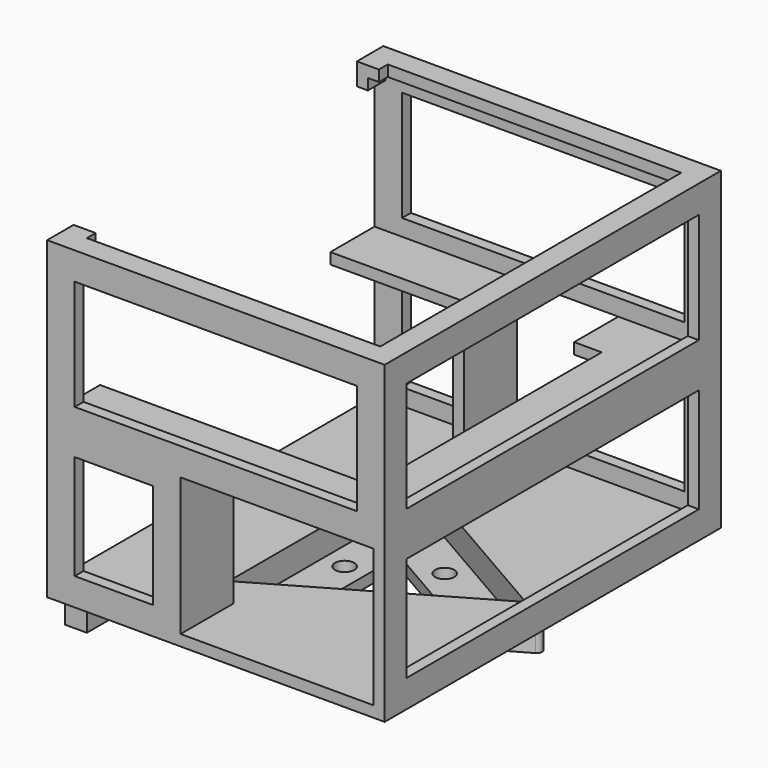
from build123d import *

# Parameters (mm, degrees)
PAD_DEPTH       = 5
FILLET_R        = 1
FILLET001_R     = 1
FILLET002_R     = 1
SKETCH001_R     = 1.75
PAD001_DEPTH    = 2
SKETCH002_W     = 61.2
SKETCH002_H     = 76.2
PAD002_DEPTH    = 2
PAD003_DEPTH    = 55
SKETCH004_W     = 35
SKETCH004_H     = 25
SKETCH004_W_2   = 14.2
SKETCH004_H_2   = 19
SKETCH004_W_3   = 51.2
SKETCH004_H_3   = 20
POCKET_DEPTH    = 2
SKETCH005_W     = 14.2
SKETCH005_H     = 19
SKETCH005_W_2   = 51.2
SKETCH005_H_2   = 20
POCKET001_DEPTH = 2
SKETCH006_W     = 66.2
SKETCH006_H     = 19
SKETCH006_H_2   = 20
POCKET002_DEPTH = 2
SKETCH007_W     = 24.2
SKETCH007_H     = 10
PAD004_DEPTH    = 2
SKETCH008_W     = 2
SKETCH008_H     = 10
PAD005_DEPTH    = 25
PAD006_DEPTH    = 2
SKETCH010_W     = 2
SKETCH010_H     = 4
PAD007_DEPTH    = 2
SKETCH011_W     = 6
SKETCH011_H     = 6
SKETCH011_R     = 1.25
PAD008_DEPTH    = 4


with BuildPart() as part:
    # Sketch → Pad (new body)
    with BuildSketch(Plane.XY):
        Polygon((28.537386, 0), (-14.268693, 24.714102), (-14.268693, -24.714102), align=None)
        Polygon((24.537386, 0), (-12.268693, 21.25), (-12.268693, -21.25), align=None, mode=Mode.SUBTRACT)
    extrude(amount=PAD_DEPTH)

    # Fillet
    fillet_edges = [part.edges().sort_by_distance(p)[0] for p in [
        (-14.268693, -24.714102, 2.5),
    ]]
    fillet(fillet_edges, radius=FILLET_R)

    # Fillet001
    fillet001_edges = [part.edges().sort_by_distance(p)[0] for p in [
        (28.537386, 0, 2.5),
    ]]
    fillet(fillet001_edges, radius=FILLET001_R)

    # Fillet002
    fillet002_edges = [part.edges().sort_by_distance(p)[0] for p in [
        (-14.268693, 24.714102, 2.5),
    ]]
    fillet(fillet002_edges, radius=FILLET002_R)

    # Sketch001 (on Face1 of Fillet002) → Pad001 (join)
    with BuildSketch(Plane(origin=(0, 0, 0), x_dir=(1, 0, 0), z_dir=(0, 0, -1))):
        Polygon((24.537386, 0), (-12.268693, 21.25), (-12.268693, -21.25), align=None)
        with Locations((4.134347, 7.160898)):
            Circle(SKETCH001_R, mode=Mode.SUBTRACT)
        with Locations((4.134347, -7.160898)):
            Circle(SKETCH001_R, mode=Mode.SUBTRACT)
        with Locations((-8.268693, 0)):
            Circle(SKETCH001_R, mode=Mode.SUBTRACT)
        Polygon((8.537386, 0), (-4.268693, 7.393594), (-4.268693, -7.393594), align=None, mode=Mode.SUBTRACT)
    extrude(amount=-PAD001_DEPTH)

    # Sketch002 (on Face9 of Pad001) → Pad002 (join)
    with BuildSketch(Plane.XY.offset(5)):
        with Locations((-1.062614, -0.09)):
            Rectangle(SKETCH002_W, SKETCH002_H)
        Polygon((-12.268693, 21.25), (-12.268693, -21.25), (24.537386, 0), align=None, mode=Mode.SUBTRACT)
    extrude(amount=PAD002_DEPTH)

    # Sketch003 (on Face21 of Pad002) → Pad003 (join)
    with BuildSketch(Plane.XY.offset(7)):
        Polygon((-31.662614, 38.01), (29.537386, 38.01), (29.537386, -38.19), (-31.662614, -38.19), (-31.662614, -36.19), (27.537386, -36.19), (27.537386, 36.01), (-31.662614, 36.01), align=None)
    extrude(amount=PAD003_DEPTH)

    # Sketch004 (on Face26 of Pad003) → Pocket (cut)
    with BuildSketch(Plane.XZ.offset(38.19)):
        with Locations((10.037386, 19.5)):
            Rectangle(SKETCH004_W, SKETCH004_H)
        with Locations((-19.562614, 19.5)):
            Rectangle(SKETCH004_W_2, SKETCH004_H_2)
        with Locations((-1.062614, 47)):
            Rectangle(SKETCH004_W_3, SKETCH004_H_3)
    extrude(amount=-POCKET_DEPTH, mode=Mode.SUBTRACT)

    # Sketch005 (on Face21 of Pocket) → Pocket001 (cut)
    with BuildSketch(Plane(origin=(0, 38.01, 0), x_dir=(-1, 0, 0), z_dir=(0, 1, 0))):
        Polygon((-24.537386, 32), (-12.537386, 32), (-12.537386, 34), (7.462614, 34), (7.462614, 32), (7.462614, 10), (-24.537386, 10), align=None)
        with Locations((19.562614, 19.5)):
            Rectangle(SKETCH005_W, SKETCH005_H)
        with Locations((1.062614, 47)):
            Rectangle(SKETCH005_W_2, SKETCH005_H_2)
    extrude(amount=-POCKET001_DEPTH, mode=Mode.SUBTRACT)

    # Sketch006 (on Face25 of Pocket001) → Pocket002 (cut)
    with BuildSketch(Plane.YZ.offset(29.537386)):
        with Locations((-0.09, 19.5)):
            Rectangle(SKETCH006_W, SKETCH006_H)
        with Locations((-0.09, 47)):
            Rectangle(SKETCH006_W, SKETCH006_H_2)
    extrude(amount=-POCKET002_DEPTH, mode=Mode.SUBTRACT)

    # Sketch007 (on Face62 of Pocket002) → Pad004 (join)
    with BuildSketch(Plane(origin=(0, 0, 32), x_dir=(1, 0, 0), z_dir=(0, 0, -1))):
        Polygon((-31.662614, 36.19), (-31.662614, 26.19), (17.537386, 26.19), (17.537386, -26.01), (12.537386, -26.01), (12.537386, -36.01), (27.537386, -36.01), (27.537386, 36.19), align=None)
        with Locations((-19.562614, -31.01)):
            Rectangle(SKETCH007_W, SKETCH007_H)
    extrude(amount=-PAD004_DEPTH)

    # Sketch008 (on Face79 of Pad004) → Pad005 (join)
    with BuildSketch(Plane(origin=(0, 0, 32), x_dir=(1, 0, 0), z_dir=(0, 0, -1))):
        with Locations((-8.462614, 31.19)):
            Rectangle(SKETCH008_W, SKETCH008_H)
        with Locations((-8.462614, -31.01)):
            Rectangle(SKETCH008_W, SKETCH008_H)
    extrude(amount=PAD005_DEPTH)

    # Sketch009 (on Face31 of Pad005) → Pad006 (join)
    with BuildSketch(Plane.XY.offset(62)):
        Polygon((-31.662614, 36.01), (27.537386, 36.01), (27.537386, -36.19), (-31.662614, -36.19), (-31.662614, -32.19), (-27.662614, -32.19), (-27.662614, -34.19), (25.537386, -34.19), (25.537386, 34.01), (-27.662614, 34.01), (-27.662614, 32.01), (-31.662614, 32.01), align=None)
    extrude(amount=-PAD006_DEPTH)

    # Sketch010 (on Face92 of Pad006) → Pad007 (join)
    with BuildSketch(Plane(origin=(0, 0, 60), x_dir=(1, 0, 0), z_dir=(0, 0, -1))):
        with Locations((-30.662614, 34.19)):
            Rectangle(SKETCH010_W, SKETCH010_H)
        with Locations((-30.662614, -34.01)):
            Rectangle(SKETCH010_W, SKETCH010_H)
    extrude(amount=PAD007_DEPTH)

    # Sketch011 (on Face17 of Pad007) → Pad008 (join)
    with BuildSketch(Plane(origin=(-31.662614, 0, 0), x_dir=(0, -1, 0), z_dir=(-1, 0, 0))):
        with Locations((-8.81, 2)):
            Rectangle(SKETCH011_W, SKETCH011_H)
        with Locations((-8.81, 2)):
            Circle(SKETCH011_R, mode=Mode.SUBTRACT)
        with Locations((31.19, 2)):
            Rectangle(SKETCH011_W, SKETCH011_H)
        with Locations((31.19, 2)):
            Circle(SKETCH011_R, mode=Mode.SUBTRACT)
    extrude(amount=-PAD008_DEPTH)


solid = part.part
